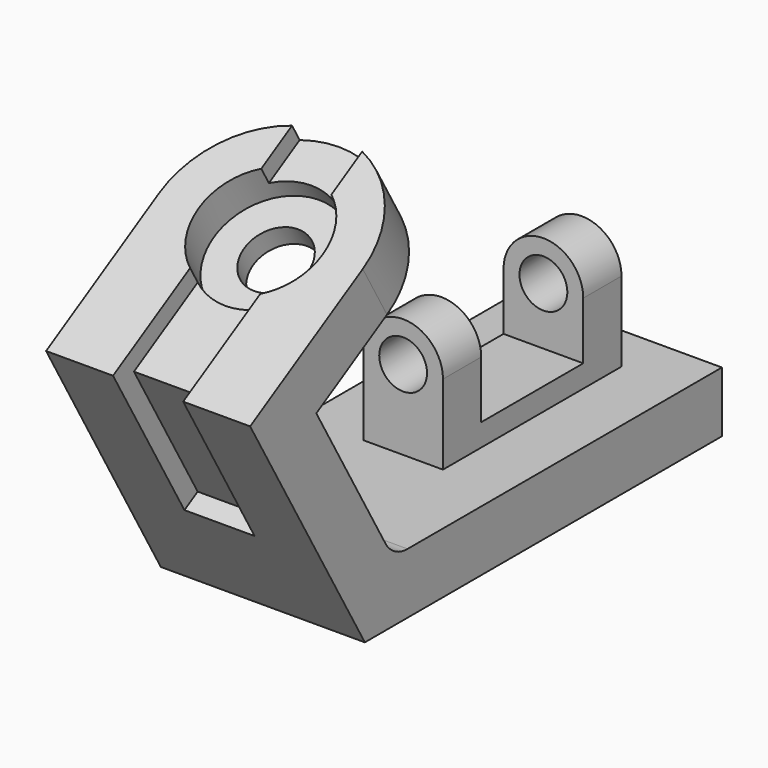
from build123d import *

# Parameters (mm, degrees)
F1_DEPTH  = 32
F3_DEPTH  = 19
F5_DEPTH  = 11
F6_R      = 10
F7_DEPTH  = 25
F8_R      = 19.5
F9_DEPTH  = 12
F11_R     = 7.5
F12_DEPTH = 70
F14_DEPTH = 32


with BuildPart() as f1:
    # F0 (on Right) → F1 (new body, symmetric)
    with BuildSketch(Plane.YZ):
        with BuildLine():
            Line((-45, 77.9422863406), (0, 0))
            Line((0, 0), (140, 0))
            Line((140, 0), (140, 19))
            Line((140, 19), (16.7431578065, 19))
            ThreePointArc((16.7431578065, 19), (11.7431578065, 20.3397459622), (8.0829037687, 24))
            Line((8.0829037687, 24), (-19.0455173281, 70.9878036687))
            Line((-19.0455173281, 70.9878036687), (36.3801085141, 102.9878036687))
            Line((36.3801085141, 102.9878036687), (26.8801085141, 119.4422863406))
            Line((26.8801085141, 119.4422863406), (-45, 77.9422863406))
        make_face()
    extrude(amount=F1_DEPTH, both=True)

    # F2 (on face) → F3 (cut, through all)
    with BuildSketch(Plane(origin=(0, -45, 77.9422863406), x_dir=(1, 0, 0), z_dir=(0, -0.5, 0.8660254038))):
        with BuildLine():
            Line((32, 83), (0, 83))
            ThreePointArc((0, 83), (22.627416998, 73.627416998), (32, 51))
            Line((32, 51), (32, 83))
        make_face()
        with BuildLine():
            Line((-32, 83), (-32, 51))
            ThreePointArc((-32, 51), (-22.627416998, 73.627416998), (0, 83))
            Line((0, 83), (-32, 83))
        make_face()
        Polygon((-106.2661910977, 51), (-32, 51), (-32, 83), (0, 83), (32, 83), (32, 51), (106.2661910977, 51), (106.2661910977, 125.2661910977), (-106.2661910977, 125.2661910977), align=None)
    extrude(amount=-F3_DEPTH, mode=Mode.SUBTRACT)

    # F4 (on Right) → F5 (cut, symmetric)
    with BuildSketch(Plane.YZ):
        Polygon((-36.8038475773, 75.7461339179), (80.5091410398, 143.4768194754), (54.8271117013, 187.9593991312), (-109.3994230032, 93.1431651115), (-58.7173936647, 5.3593152665), (-11.8038475773, 32.4448637287), align=None)
    extrude(amount=F5_DEPTH, both=True, mode=Mode.SUBTRACT)

    # F6 (on face) → F7 (cut, symmetric)
    with BuildSketch(Plane(origin=(0, -42, 72.7461339179), x_dir=(1, 0, 0), z_dir=(0, -0.5, 0.8660254038))):
        with Locations((0, 51)):
            Circle(F6_R)
    extrude(amount=F7_DEPTH, both=True, mode=Mode.SUBTRACT)

    # F8 (on face) → F9 (cut)
    with BuildSketch(Plane(origin=(0, -45, 77.9422863406), x_dir=(1, 0, 0), z_dir=(0, -0.5, 0.8660254038))):
        with Locations((0, 51)):
            Circle(F8_R)
    extrude(amount=-F9_DEPTH, mode=Mode.SUBTRACT)

    # F11 (on offset) → F12 (join)
    with BuildSketch(Plane(origin=(0, 125, 0), x_dir=(-1, 0, 0), z_dir=(0, 1, 0))):
        with BuildLine():
            Line((-12.5, 44), (-12.5, 19))
            Line((-12.5, 19), (12.5, 19))
            Line((12.5, 19), (12.5, 44))
            ThreePointArc((12.5, 44), (0, 56.5), (-12.5, 44))
        make_face()
        with Locations((0, 44)):
            Circle(F11_R, mode=Mode.SUBTRACT)
    extrude(amount=-F12_DEPTH)

    # F13 (on Right) → F14 (cut, symmetric)
    with BuildSketch(Plane.YZ):
        Polygon((110, 97.3418423458), (70, 97.3418423458), (70, 26), (90, 26), (110, 26), align=None)
    extrude(amount=F14_DEPTH, both=True, mode=Mode.SUBTRACT)


solid = f1.part
